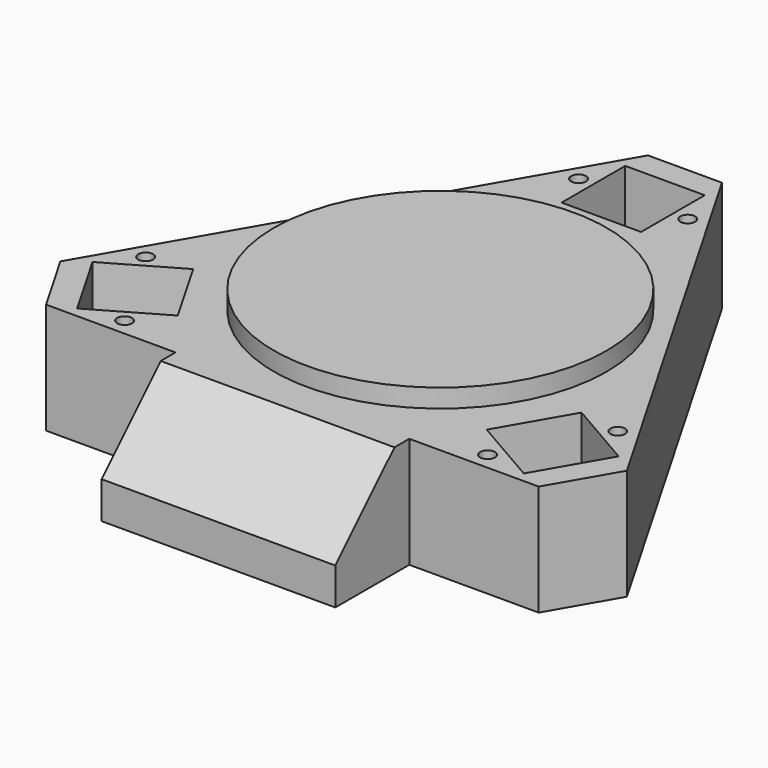
from build123d import *

# Parameters (mm, degrees)
F1_DEPTH  = 60
F2_SIZE   = 40
F3_R      = 90
F4_DEPTH  = 10
F5_W      = 43
F5_H      = 43
F6_DEPTH  = 40
F7_R      = 4
F8_DEPTH  = 10
F9_W      = 126.410162
F9_H      = 60
F10_DEPTH = 50
F11_SIZE  = 40


with BuildPart() as f1:
    # F0 (on Top) → F1 (new body)
    with BuildSketch(Plane.XY):
        Polygon((-173.205081, -100), (173.205081, -100), (0, 200), align=None)
    extrude(amount=F1_DEPTH)

    # F2
    f2_edges = [f1.edges().sort_by_distance(p)[0] for p in [
        (-173.205081, -100, 30),
        (173.205081, -100, 30),
        (0, 200, 30),
    ]]
    chamfer(f2_edges, length=F2_SIZE)

    # F3 (on face) → F4 (join)
    with BuildSketch(Plane.XY.offset(60)):
        Circle(F3_R)
    extrude(amount=F4_DEPTH)

    # F5 (on face) → F6 (cut)
    with BuildSketch(Plane.XY.offset(60)):
        with Locations((0, 130.358984)):
            Rectangle(F5_W, F5_H)
        Polygon((-120.763738, -94.549038), (-83.524645, -73.049038), (-105.024645, -35.809946), (-142.263738, -57.309946), align=None)
        Polygon((142.263738, -57.309946), (105.024645, -35.809946), (83.524645, -73.049038), (120.763738, -94.549038), align=None)
    extrude(amount=-F6_DEPTH, mode=Mode.SUBTRACT)

    # F7 (on face) → F8 (cut)
    with BuildSketch(Plane.XY.offset(60)):
        with Locations((-29.5, 130.358984)):
            Circle(F7_R)
        with Locations((29.5, 130.358984)):
            Circle(F7_R)
        with Locations((-98.144192, -90.727241)):
            Circle(F7_R)
        with Locations((-127.644192, -39.631743)):
            Circle(F7_R)
        with Locations((127.644192, -39.631743)):
            Circle(F7_R)
        with Locations((98.144192, -90.727241)):
            Circle(F7_R)
    extrude(amount=-F8_DEPTH, mode=Mode.SUBTRACT)

    # F9 (on face) → F10 (join)
    with BuildSketch(Plane.XZ.offset(100)):
        with Locations((0, 30)):
            Rectangle(F9_W, F9_H)
    extrude(amount=F10_DEPTH)

    # F11
    f11_edges = [f1.edges().sort_by_distance(p)[0] for p in [
        (0, -150, 60),
    ]]
    chamfer(f11_edges, length=F11_SIZE)


solid = f1.part
